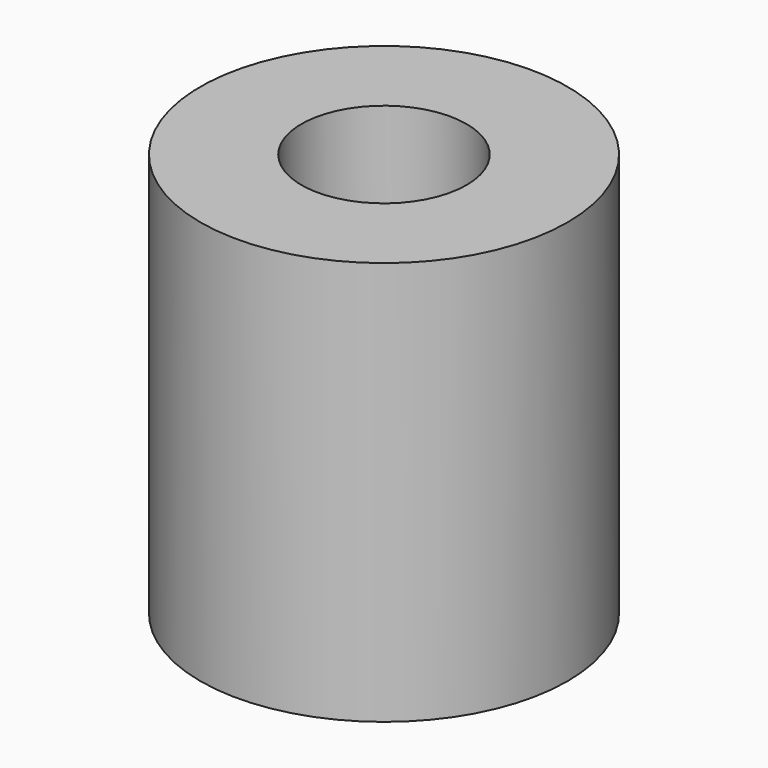
from build123d import *

# Parameters (mm, degrees)
SKETCH_R     = 5
PAD_DEPTH    = 11
SKETCH001_R  = 2.25
POCKET_DEPTH = 11.001


with BuildPart() as part:
    # Sketch → Pad (new body)
    with BuildSketch(Plane.XY):
        Circle(SKETCH_R)
    extrude(amount=PAD_DEPTH)

    # Sketch001 → Pocket (cut, through all)
    with BuildSketch(Plane.XY.offset(11)):
        Circle(SKETCH001_R)
    extrude(amount=-POCKET_DEPTH, mode=Mode.SUBTRACT)


solid = part.part
